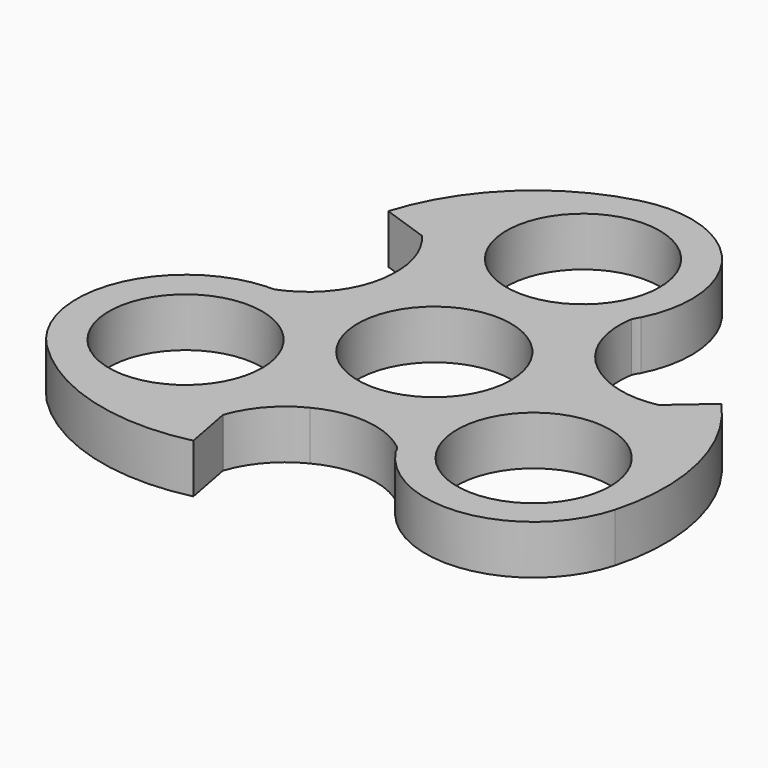
from build123d import *

# Parameters (mm, degrees)
F0_R     = 10.925
F1_DEPTH = 7


with BuildPart() as f1:
    # F0 (on Top) → F1 (new body)
    with BuildSketch(Plane.XY):
        with BuildLine():
            Line((-25.195177, 23.292161), (-18.579467, 21.00472))
            ThreePointArc((-18.579467, 21.00472), (-16.05026, 16.656364), (-15.388008, 11.66973))
            ThreePointArc((-15.388008, 11.66973), (-17.690744, 4.964006), (-23.312698, 0.643942))
            ThreePointArc((-23.312698, 0.643942), (-23.883507, 0.611857), (-24.455103, 0.623314))
            ThreePointArc((-24.455103, 0.623314), (-38.038963, -9.325304), (-34.595795, -25.806836))
            ThreePointArc((-34.595795, -25.806836), (-22.079469, -33.145264), (-7.574015, -33.465744))
            Line((-7.574015, -33.465744), (-8.873672, -26.609321))
            Line((-8.873672, -26.609321), (-8.865402, -26.494696))
            ThreePointArc((-8.865402, -26.494696), (-6.364361, -22.189554), (-2.412279, -19.161271))
            ThreePointArc((-2.412279, -19.161271), (4.546416, -17.802636), (11.098679, -20.51136))
            ThreePointArc((11.098679, -20.51136), (11.436967, -20.974552), (11.687745, -21.490397))
            ThreePointArc((11.687745, -21.490397), (26.980627, -28.294291), (39.471679, -17.152531))
            ThreePointArc((39.471679, -17.152531), (39.676146, -2.617337), (32.769191, 10.173583))
            Line((32.769191, 10.173583), (27.553867, 5.651669))
            Line((27.553867, 5.651669), (27.472565, 5.59959))
            ThreePointArc((27.472565, 5.59959), (22.447441, 5.579409), (17.800287, 7.491541))
            ThreePointArc((17.800287, 7.491541), (13.144327, 12.83863), (12.214019, 19.867418))
            ThreePointArc((12.214019, 19.867418), (12.464986, 20.381477), (12.767357, 20.867083))
            ThreePointArc((12.767357, 20.867083), (11.013261, 37.513054), (-4.881312, 42.759742))
            ThreePointArc((-4.881312, 42.759742), (-17.571393, 35.669219), (-25.195177, 23.292161))
        make_face()
        with Locations((-23.466596, -14.998046)):
            Circle(F0_R, mode=Mode.SUBTRACT)
        Circle(F0_R, mode=Mode.SUBTRACT)
        with Locations((24.60117, -13.053924)):
            Circle(F0_R, mode=Mode.SUBTRACT)
        with Locations((-1.067117, 27.829548)):
            Circle(F0_R, mode=Mode.SUBTRACT)
    extrude(amount=F1_DEPTH)


solid = f1.part
